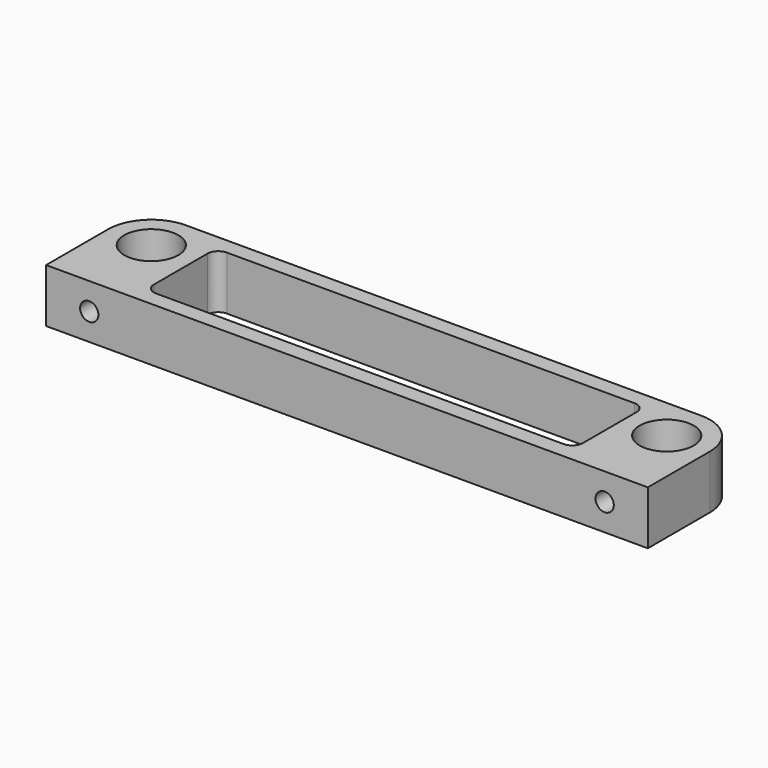
from build123d import *

# Parameters (mm, degrees)
F0_W     = 88.9625
F0_H     = 17.849998
F0_R     = 3.20625
F0_W_2   = 63.4375
F0_H_2   = 13.087498
F1_DEPTH = 7.9375
F3_R     = 4
F4_DEPTH = 6.35
F5_R     = 1.35255
F6_DEPTH = 4.7625
F7_R     = 1.5875
F8_R     = 6.381242


with BuildPart() as f1:
    # F0 (on Top) → F1 (new body)
    with BuildSketch(Plane.XY):
        Rectangle(F0_W, F0_H)
        with Locations((-38.1, 2.543749)):
            Circle(F0_R, mode=Mode.SUBTRACT)
        Rectangle(F0_W_2, F0_H_2, mode=Mode.SUBTRACT)
        with Locations((38.1, 2.543749)):
            Circle(F0_R, mode=Mode.SUBTRACT)
    extrude(amount=F1_DEPTH)

    # F3 (on face) → F4 (cut, through all)
    with BuildSketch(Plane.XY.offset(7.9375)):
        with Locations((-38.1, 2.543749)):
            Circle(F3_R)
        with Locations((38.1, 2.543749)):
            Circle(F3_R)
    extrude(amount=-F4_DEPTH, mode=Mode.SUBTRACT)

    # F5 (on face) → F6 (cut)
    with BuildSketch(Plane.XZ.offset(8.924999)):
        with Locations((-38.1, 3.96875)):
            Circle(F5_R)
        with Locations((38.1, 3.96875)):
            Circle(F5_R)
    extrude(amount=-F6_DEPTH, mode=Mode.SUBTRACT)

    # F7
    f7_edges = [f1.edges().sort_by_distance(p)[0] for p in [
        (31.71875, 6.543749, 3.96875),
        (31.71875, -6.543749, 3.96875),
        (-31.71875, -6.543749, 3.96875),
        (-31.71875, 6.543749, 3.96875),
    ]]
    fillet(f7_edges, radius=F7_R)

    # F8
    f8_edges = [f1.edges().sort_by_distance(p)[0] for p in [
        (44.48125, 8.924999, 3.96875),
        (-44.48125, 8.924999, 3.96875),
    ]]
    fillet(f8_edges, radius=F8_R)


solid = f1.part
